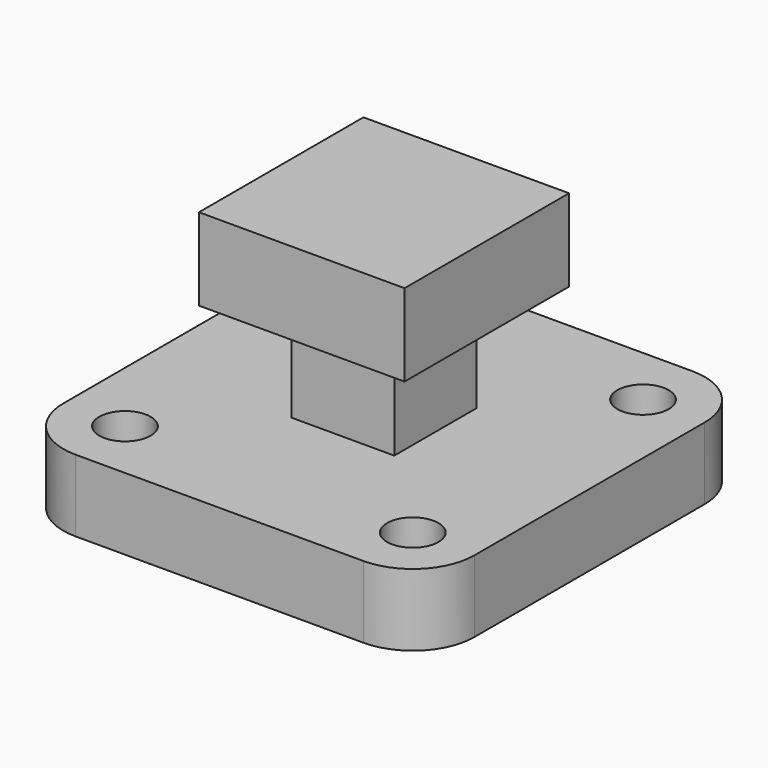
from build123d import *

# Parameters (mm, degrees)
F0_R     = 1.5875
F1_DEPTH = 4.445
F2_W     = 6.35
F2_H     = 6.35
F3_DEPTH = 6.35
F4_W     = 12.7
F4_H     = 12.7
F5_DEPTH = 5.08


with BuildPart() as f1:
    # F0 (on Top) → F1 (new body)
    with BuildSketch(Plane.XY):
        with BuildLine():
            ThreePointArc((12.7, 8.89), (11.584077, 11.584077), (8.89, 12.7))
            Line((8.89, 12.7), (-8.89, 12.7))
            ThreePointArc((-8.89, 12.7), (-11.584077, 11.584077), (-12.7, 8.89))
            Line((-12.7, 8.89), (-12.7, -8.89))
            ThreePointArc((-12.7, -8.89), (-11.584077, -11.584077), (-8.89, -12.7))
            Line((-8.89, -12.7), (8.89, -12.7))
            ThreePointArc((8.89, -12.7), (11.584077, -11.584077), (12.7, -8.89))
            Line((12.7, -8.89), (12.7, 8.89))
        make_face()
        with Locations((-8.89, -8.89)):
            Circle(F0_R, mode=Mode.SUBTRACT)
        with Locations((8.89, -8.89)):
            Circle(F0_R, mode=Mode.SUBTRACT)
        with Locations((-8.89, 8.89)):
            Circle(F0_R, mode=Mode.SUBTRACT)
        with Locations((8.89, 8.89)):
            Circle(F0_R, mode=Mode.SUBTRACT)
    extrude(amount=F1_DEPTH)

    # F2 (on face) → F3 (join)
    with BuildSketch(Plane.XY.offset(4.445)):
        Rectangle(F2_W, F2_H)
    extrude(amount=F3_DEPTH)

    # F4 (on face) → F5 (join)
    with BuildSketch(Plane.XY.offset(10.795)):
        Rectangle(F4_W, F4_H)
    extrude(amount=F5_DEPTH)


solid = f1.part
